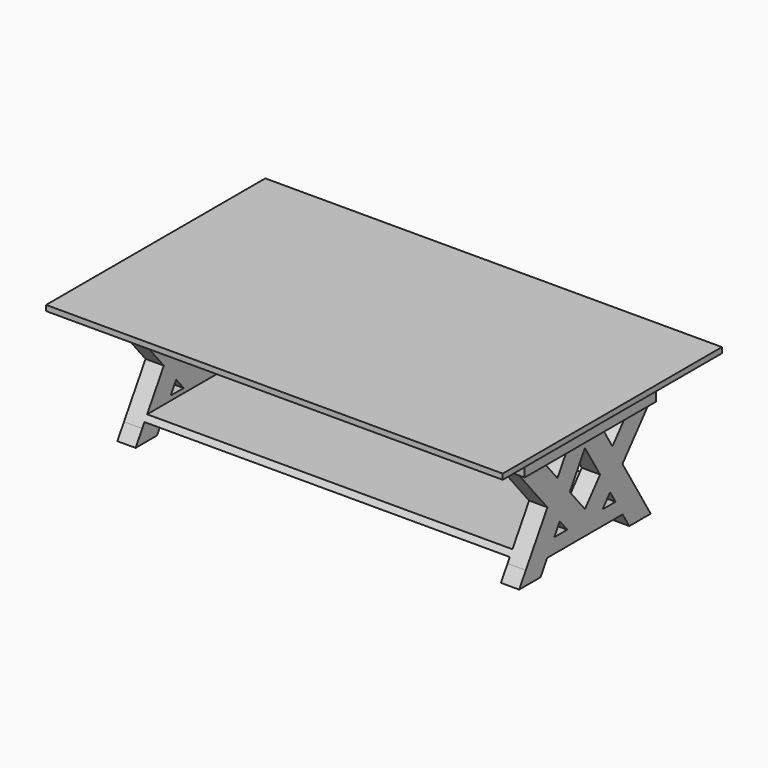
from build123d import *

# Parameters (mm, degrees)
F1_DEPTH      = 609.6
F1_DEPTH_BACK = 152.4
F2_DEPTH      = 457.2
F3_DEPTH      = 457.2
F5_DEPTH      = 2540


with BuildPart() as f1:
    # F0 (on Front) → F1 (new body, two sides)
    with BuildSketch(Plane.XZ) as f1_sk:
        Polygon((148.710757494, 22.0376051942), (-1121.289242506, 22.0376051942), (-1121.289242506, 6.7976051942), (-1060.329242506, 6.7976051942), (-979.049242506, 6.7976051942), (-940.949242506, 6.7976051942), (-928.249242506, 6.7976051942), (-623.449242506, 6.7976051942), (-610.749242506, 6.7976051942), (-361.829242506, 6.7976051942), (-349.129242506, 6.7976051942), (-44.329242506, 6.7976051942), (-31.629242506, 6.7976051942), (6.470757494, 6.7976051942), (87.750757494, 6.7976051942), (148.710757494, 6.7976051942), align=None)
    extrude(amount=-F1_DEPTH)
    extrude(f1_sk.sketch, amount=F1_DEPTH_BACK)

    # F0 (on Front) → F2 (join)
    with BuildSketch(Plane.XZ):
        Polygon((-979.049242506, 6.7976051942), (-1060.329242506, 6.7976051942), (-1060.329242506, -69.4023948058), (-1045.089242506, -69.4023948058), (-1045.089242506, -348.8023948058), (-994.289242506, -348.8023948058), (-994.289242506, -298.0023948058), (-994.289242506, -282.7623948058), (-994.289242506, -82.1023948058), (-994.289242506, -69.4023948058), (-979.049242506, -69.4023948058), align=None)
        Polygon((87.750757494, -69.4023948058), (87.750757494, 6.7976051942), (6.470757494, 6.7976051942), (6.470757494, -69.4023948058), (21.710757494, -69.4023948058), (21.710757494, -82.1023948058), (21.710757494, -282.7623948058), (21.710757494, -298.0023948058), (21.710757494, -348.8023948058), (72.510757494, -348.8023948058), (72.510757494, -69.4023948058), align=None)
    extrude(amount=-F2_DEPTH)

    # F0 (on Front) → F3 (join)
    with BuildSketch(Plane.XZ):
        Polygon((-486.289242506, -282.7623948058), (-994.289242506, -282.7623948058), (-994.289242506, -298.0023948058), (-486.289242506, -298.0023948058), (21.710757494, -298.0023948058), (21.710757494, -282.7623948058), align=None)
    extrude(amount=-F3_DEPTH)

    # F4 (on face) → F5 (cut)
    with BuildSketch(Plane(origin=(-1060.329242506, 0, 0), x_dir=(0, -1, 0), z_dir=(-1, 0, 0))):
        Polygon((-457.2, -270.0623948058), (-409.3666133917, -270.0623948058), (-359.05659291, -187.2455320743), (-457.2, -69.4023948058), align=None)
        Polygon((-374.5619450508, -69.4023948058), (-324.2021632287, -129.8705898486), (-287.4686281641, -69.4023948058), align=None)
        Polygon((-228.6, -94.8023948058), (-281.2405547119, -181.4556211801), (-228.6, -244.6623948058), (-175.9594452881, -181.4556211801), align=None)
        Polygon((-82.6380549492, -69.4023948058), (-169.7313718359, -69.4023948058), (-132.9978367713, -129.8705898486), align=None)
        Polygon((-98.14340709, -187.2455320743), (-47.8333866083, -270.0623948058), (0, -270.0623948058), (0, -69.4023948058), align=None)
        Polygon((-167.1158501306, -270.0623948058), (-122.1321394847, -270.0623948058), (-141.1050156067, -238.8305634058), align=None)
        Polygon((-316.0949843933, -238.8305634058), (-335.0678605153, -270.0623948058), (-290.0841498694, -270.0623948058), align=None)
        Polygon((-359.756060055, -310.7023948058), (-382.9012471236, -348.8023948058), (-74.2987528764, -348.8023948058), (-97.443939945, -310.7023948058), align=None)
        Polygon((-457.2, -310.7023948058), (-457.2, -348.8023948058), (-434.0548129315, -310.7023948058), align=None)
        Polygon((-23.1451870685, -310.7023948058), (0, -348.8023948058), (0, -310.7023948058), align=None)
        Polygon((-47.8333866083, -270.0623948058), (-23.1451870685, -310.7023948058), (0, -310.7023948058), (0, -270.0623948058), align=None)
        Polygon((-457.2, -310.7023948058), (-434.0548129315, -310.7023948058), (-409.3666133917, -270.0623948058), (-457.2, -270.0623948058), align=None)
    extrude(amount=-F5_DEPTH, mode=Mode.SUBTRACT)


solid = f1.part
